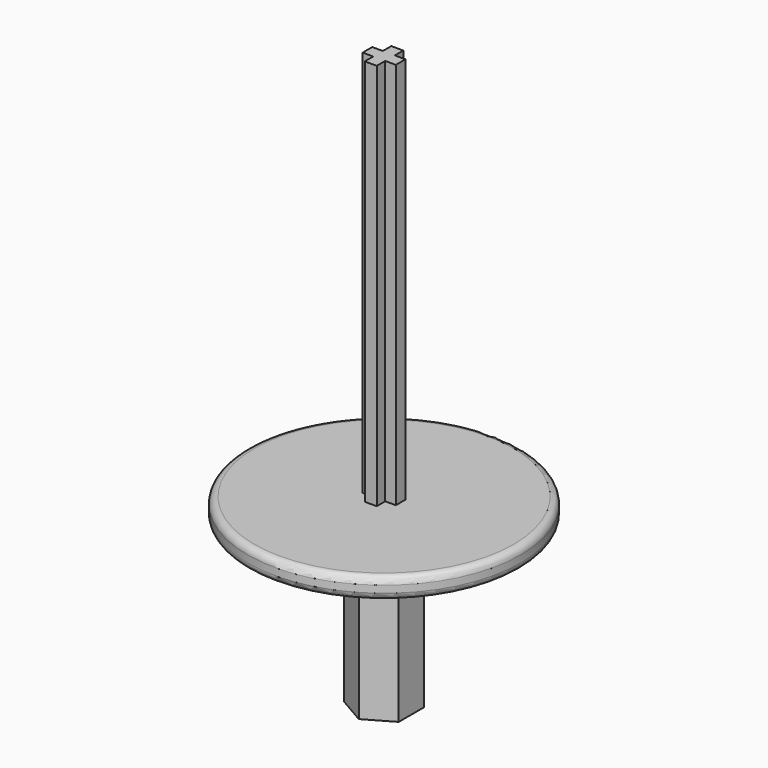
from build123d import *

# Parameters (mm, degrees)
F1_DEPTH = 17
F2_R     = 4.7
F3_DEPTH = 6
F4_R     = 19.4
F5_DEPTH = 3
F6_W     = 1.5
F6_H     = 1.7
F6_W_2   = 1.7
F6_H_2   = 1.5
F7_DEPTH = 55
F8_R     = 1


with BuildPart() as f1:
    # F0 (on Top) → F1 (new body)
    with BuildSketch(Plane.XY):
        Polygon((3.875, -2.2372322931), (3.875, 2.2372322931), (0, 4.4744645862), (-3.875, 2.2372322931), (-3.875, -2.2372322931), (0, -4.4744645862), align=None)
    extrude(amount=-F1_DEPTH)

    # F2 (on face) → F3 (join)
    with BuildSketch(Plane.XY):
        Circle(F2_R)
    extrude(amount=F3_DEPTH)

    # F4 (on face) → F5 (join)
    with BuildSketch(Plane.XY.offset(6)):
        Circle(F4_R)
    extrude(amount=F5_DEPTH)

    # F6 (on face) → F7 (join)
    with BuildSketch(Plane.XY.offset(9)):
        with Locations((-1.6, 0)):
            Rectangle(F6_W, F6_H)
        with Locations((0, 1.6)):
            Rectangle(F6_W_2, F6_H_2)
        Rectangle(F6_W_2, F6_H)
        with Locations((1.6, 0)):
            Rectangle(F6_W, F6_H)
        with Locations((0, -1.6)):
            Rectangle(F6_W_2, F6_H_2)
    extrude(amount=F7_DEPTH)

    # F8
    f8_edges = [f1.edges().sort_by_distance(p)[0] for p in [
        (-19.4, 0, 6),
        (-19.4, 0, 9),
    ]]
    fillet(f8_edges, radius=F8_R)


solid = f1.part
